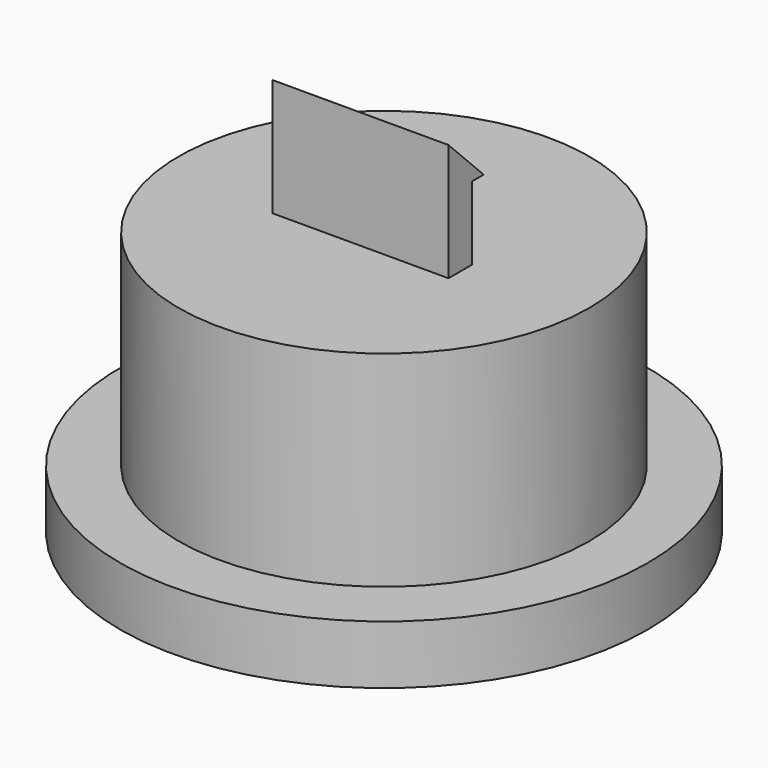
from build123d import *

# Parameters (mm, degrees)
F0_R     = 3.5
F1_DEPTH = 3.5
F2_R     = 4.5
F2_R_2   = 3.5
F3_DEPTH = 1
F4_R     = 3.5
F5_DEPTH = 1
F6_W     = 3
F6_H     = 3
F7_DEPTH = 2
F8_W     = 0.25
F8_H     = 1.25
F8_W_2   = 1
F8_H_2   = 2
F9_DEPTH = 25.4


with BuildPart() as f1:
    # F0 (on Top) → F1 (new body)
    with BuildSketch(Plane.XY):
        Circle(F0_R)
    extrude(amount=F1_DEPTH)

    # F6 (on face) → F7 (join)
    with BuildSketch(Plane.XY.offset(3.5)):
        Rectangle(F6_W, F6_H)
    extrude(amount=F7_DEPTH)

    # F8 (on face) → F9 (cut)
    with BuildSketch(Plane.YZ.offset(1.5)):
        with Locations((0.125, 4.125)):
            Rectangle(F8_W, F8_H)
        Polygon((0.25, 5.5), (0, 5.5), (0, 5), (0.25, 4.75), align=None)
        Polygon((0, 5.5), (-0.5, 5.5), (0, 5), align=None)
        with Locations((-1, 4.5)):
            Rectangle(F8_W_2, F8_H_2)
        Polygon((0.25, 4.75), (0.25, 3.5), (1.5, 3.5), (1.5, 5.5), (0.25, 5.5), align=None)
    extrude(amount=-F9_DEPTH, mode=Mode.SUBTRACT)


with BuildPart() as f3:
    # F2 (on face) → F3 (new body)
    with BuildSketch(Plane(origin=(0, 0, 0), x_dir=(1, 0, 0), z_dir=(0, 0, -1))):
        Circle(F2_R)
        Circle(F2_R_2, mode=Mode.SUBTRACT)
    extrude(amount=F3_DEPTH)


with BuildPart() as f5:
    # F4 (on face) → F5 (new body)
    with BuildSketch(Plane(origin=(0, 0, 0), x_dir=(1, 0, 0), z_dir=(0, 0, -1))):
        Circle(F4_R)
    extrude(amount=F5_DEPTH)


solid = Compound([f1.part, f3.part, f5.part])
